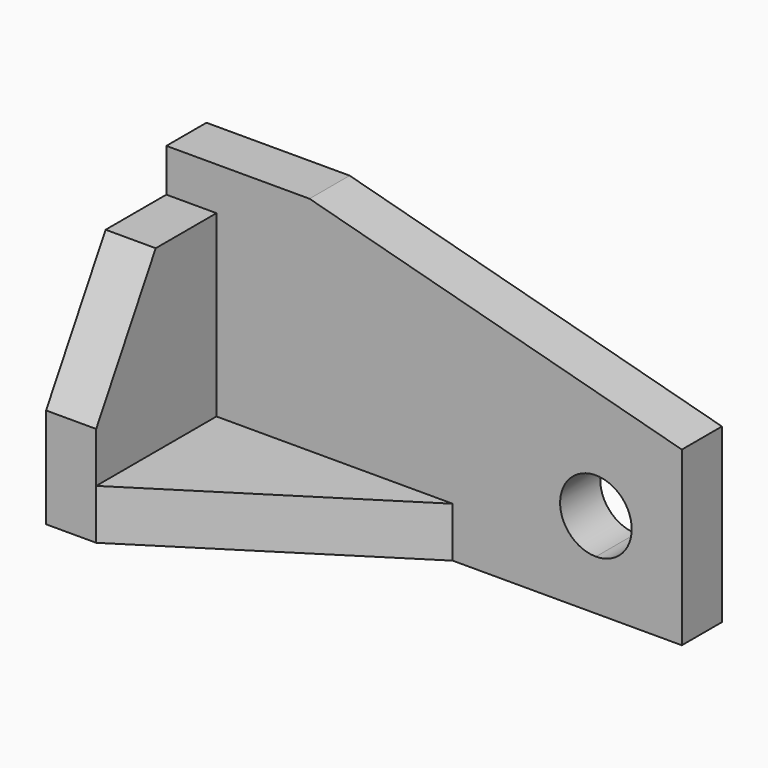
from build123d import *

# Parameters (mm, degrees)
F1_DEPTH = 60.325
F2_DEPTH = 11.1125
F4_DEPTH = 11.1125
F0_W     = 11.1125
F0_H     = 33.3375
F5_DEPTH = 50.8
F6_DEPTH = 25.4
F8_DEPTH = 11.1125


with BuildPart() as f1:
    # F0 (on Top) → F1 (new body)
    with BuildSketch(Plane.XY):
        Polygon((114.3, 0), (0, 0), (0, -11.1125), (11.1125, -11.1125), (63.5, -11.1125), (114.3, -11.1125), align=None)
    extrude(amount=F1_DEPTH)

    # F0 (on Top) → F2 (join)
    with BuildSketch(Plane.XY):
        Polygon((63.5, -11.1125), (11.1125, -11.1125), (11.1125, -44.45), align=None)
    extrude(amount=F2_DEPTH)

    # F3 (on face) → F4 (cut)
    with BuildSketch(Plane.XZ.offset(11.1125)):
        Polygon((114.3, 60.325), (31.75, 60.325), (114.3, 38.205794), align=None)
    extrude(amount=-F4_DEPTH, mode=Mode.SUBTRACT)

    # F0 (on Top) → F5 (join)
    with BuildSketch(Plane.XY):
        with Locations((5.55625, -27.78125)):
            Rectangle(F0_W, F0_H)
    extrude(amount=F5_DEPTH)

    # F3 (on face) → F6 (cut)
    with BuildSketch(Plane.XZ.offset(11.1125)):
        with BuildLine():
            ThreePointArc((103.1875, 19.05), (89.63734, 24.66266), (95.25, 11.1125))
            ThreePointArc((95.25, 11.1125), (100.86266, 13.43734), (103.1875, 19.05))
        make_face()
    extrude(amount=-F6_DEPTH, mode=Mode.SUBTRACT)

    # F7 (on face) → F8 (cut)
    with BuildSketch(Plane.YZ.offset(11.1125)):
        Polygon((-44.45, 50.8), (-44.45, 22.225), (-27.952216, 50.8), align=None)
    extrude(amount=-F8_DEPTH, mode=Mode.SUBTRACT)


solid = f1.part
